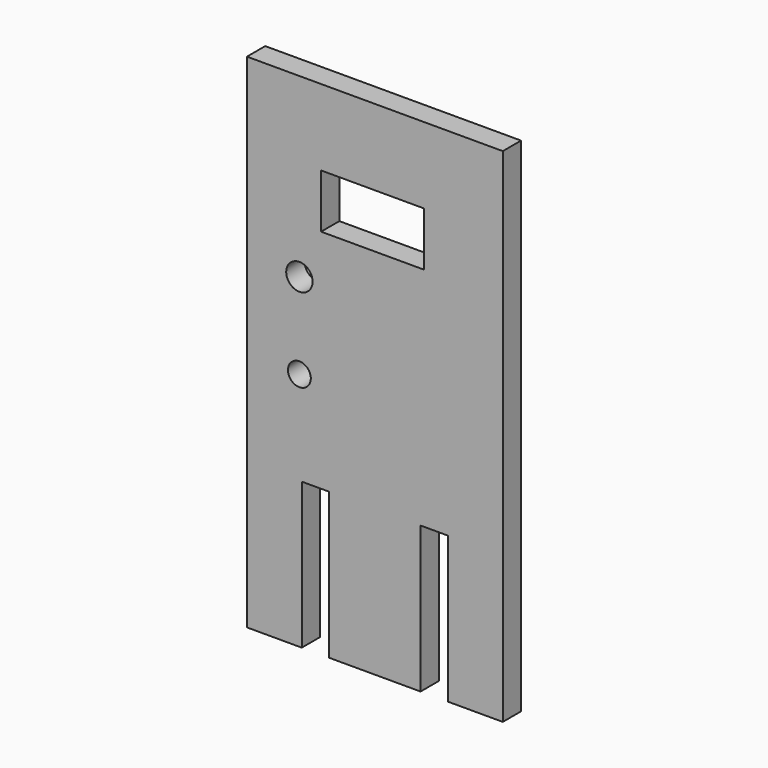
from build123d import *

# Parameters (mm, degrees)
F0_W     = 56
F0_H     = 110
F1_DEPTH = 5
F2_W     = 6
F2_H     = 32
F2_W_2   = 22.5
F2_H_2   = 11.8
F2_R     = 2.885
F2_R_2   = 2.5
F3_DEPTH = 25


with BuildPart() as f1:
    # F0 (on Front) → F1 (new body)
    with BuildSketch(Plane.XZ):
        with Locations((-15.773296, 12.593315)):
            Rectangle(F0_W, F0_H)
    extrude(amount=F1_DEPTH)

    # F2 (on face) → F3 (cut)
    with BuildSketch(Plane.XZ.offset(5)):
        with Locations((-2.773296, -26.406685)):
            Rectangle(F2_W, F2_H)
        with Locations((-28.773296, -26.406685)):
            Rectangle(F2_W, F2_H)
        with Locations((-16.29366, 45.039438)):
            Rectangle(F2_W_2, F2_H_2)
        with Locations((-32.292966, 28.889665)):
            Circle(F2_R)
        with Locations((-32.292966, 10.118715)):
            Circle(F2_R_2)
    extrude(amount=-F3_DEPTH, mode=Mode.SUBTRACT)


solid = f1.part
